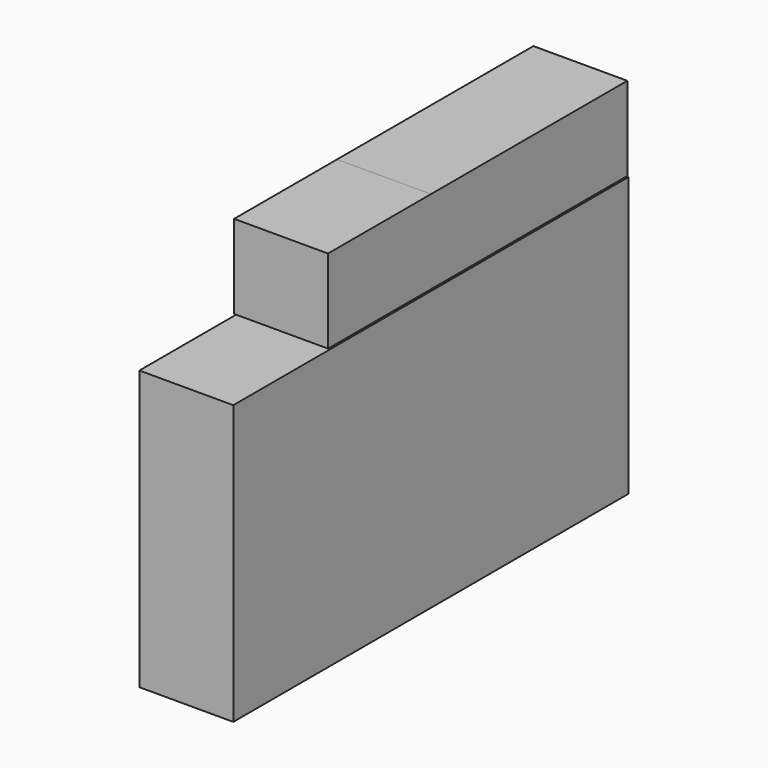
from build123d import *

# Parameters (mm, degrees)
F0_W      = 133.645922
F0_H      = 75.401596
F1_DEPTH  = 25.4
F2_W      = 66.371463
F2_H      = 22.640005
F3_DEPTH  = 25.4
F3_FACE_W = 25.4
F3_FACE_H = 22.640004
F4_DEPTH  = 34.798


with BuildPart() as f1:
    # F0 (on Right) → F1 (new body)
    with BuildSketch(Plane.YZ):
        Rectangle(F0_W, F0_H)
    extrude(amount=F1_DEPTH)


with BuildPart() as f3:
    # F2 (on Right) → F3 (new body)
    with BuildSketch(Plane.YZ):
        with Locations((33.185731, 49.472302)):
            Rectangle(F2_W, F2_H)
    extrude(amount=F3_DEPTH)

    # F3_face (on face) → F4 (join)
    with BuildSketch(Plane(origin=(12.7, 0, 49.472302), x_dir=(1, 0, 0), z_dir=(0, -1, 0))):
        Rectangle(F3_FACE_W, F3_FACE_H)
    extrude(amount=F4_DEPTH)


solid = Compound([f1.part, f3.part])
